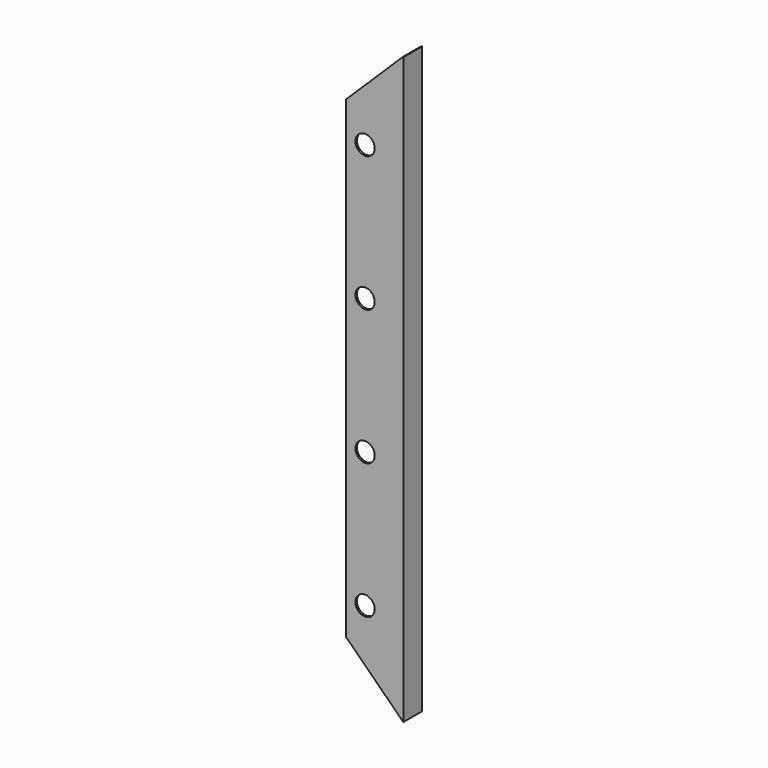
from build123d import *

# Parameters (mm, degrees)
F1_DEPTH = 3030
F3_DEPTH = 200
F4_R     = 50
F5_DEPTH = 120.001


with BuildPart() as f1:
    # F0 (on Top) → F1 (new body)
    with BuildSketch(Plane.XY):
        Polygon((-100, 0), (-110, 0), (-110, -30), (190, -30), (190, 90), (180, 90), (180, -20), (-100, -20), align=None)
    extrude(amount=F1_DEPTH)

    # F2 (on face) → F3 (cut)
    with BuildSketch(Plane.XZ.offset(30)):
        Polygon((186.4785214056, 0), (-110, 291.3486315578), (-110, 0), align=None)
        Polygon((-110, 3030), (-110, 2738.6513684422), (186.4785214056, 3030), align=None)
    extrude(amount=-F3_DEPTH, mode=Mode.SUBTRACT)

    # F4 (on face) → F5 (cut, through all)
    with BuildSketch(Plane.XZ.offset(30)):
        with Locations((-10, 465)):
            Circle(F4_R)
        with Locations((-10, 1165)):
            Circle(F4_R)
        with Locations((-10, 1865)):
            Circle(F4_R)
        with Locations((-10, 2565)):
            Circle(F4_R)
    extrude(amount=-F5_DEPTH, mode=Mode.SUBTRACT)


solid = f1.part
